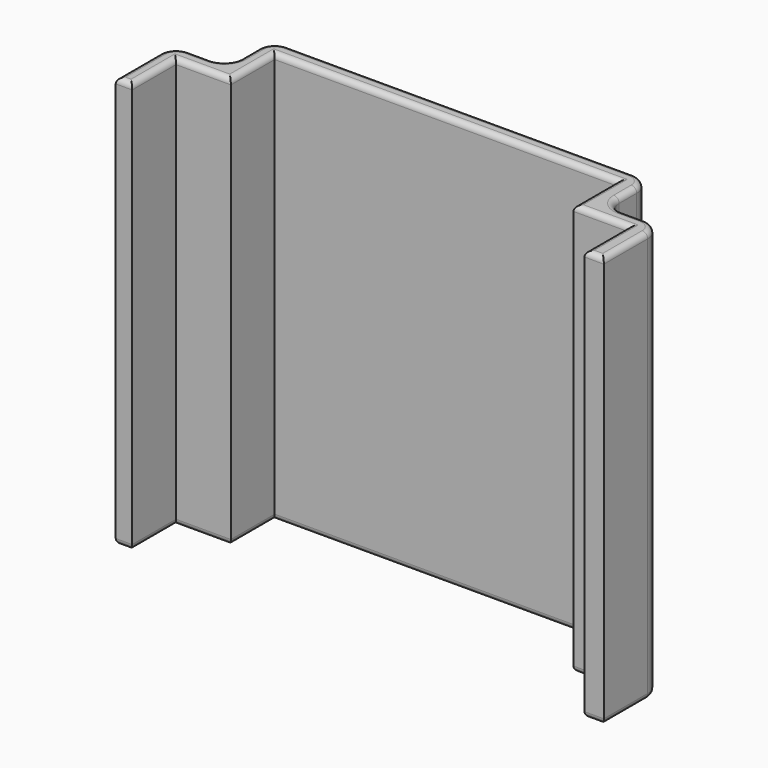
from build123d import *

# Parameters (mm, degrees)
F1_DEPTH = 75
F2_R     = 3
F3_R     = 1
F4_R     = 7.468486
F4_R_2   = 4.590702
F5_DEPTH = 1


with BuildPart() as f1:
    # F0 (on Top) → F1 (new body)
    with BuildSketch(Plane.XY):
        Polygon((-3, 0), (0, 0), (0, 10), (10, 10), (10, 20), (72.5, 20), (72.5, 10), (82.5, 10), (82.5, 0), (86.034332, 0), (86.034332, 13), (76.034332, 13), (76.034332, 23), (7, 23), (7, 13), (-3, 13), align=None)
    extrude(amount=F1_DEPTH)

    # F2
    f2_edges = [f1.edges().sort_by_distance(p)[0] for p in [
        (-3, 13, 37.5),
        (7, 13, 37.5),
        (7, 23, 37.5),
        (76.034332, 23, 37.5),
        (76.034332, 13, 37.5),
        (86.034332, 13, 37.5),
    ]]
    fillet(f2_edges, radius=F2_R)

    # F3
    f3_edges = [f1.edges().sort_by_distance(p)[0] for p in [
        (86.034332, 5, 75),
        (85.155653, 12.12132, 75),
        (84.267166, 0, 75),
        (81.034332, 13, 75),
        (82.5, 5, 75),
        (76.913012, 13.87868, 75),
        (77.5, 10, 75),
        (76.034332, 18, 75),
        (72.5, 15, 75),
        (75.155653, 22.12132, 75),
        (41.25, 20, 75),
        (41.517166, 23, 75),
        (10, 15, 75),
        (7.87868, 22.12132, 75),
        (5, 10, 75),
        (7, 18, 75),
        (0, 5, 75),
        (6.12132, 13.87868, 75),
        (-1.5, 0, 75),
        (2, 13, 75),
        (-3, 5, 75),
        (-2.12132, 12.12132, 75),
        (86.034332, 5, 0),
        (85.155653, 12.12132, 0),
        (84.267166, 0, 0),
        (81.034332, 13, 0),
        (82.5, 5, 0),
        (76.913012, 13.87868, 0),
        (77.5, 10, 0),
        (76.034332, 18, 0),
        (72.5, 15, 0),
        (75.155653, 22.12132, 0),
        (41.25, 20, 0),
        (41.517166, 23, 0),
        (10, 15, 0),
        (7.87868, 22.12132, 0),
        (5, 10, 0),
        (7, 18, 0),
        (0, 5, 0),
        (6.12132, 13.87868, 0),
        (-1.5, 0, 0),
        (2, 13, 0),
        (-3, 5, 0),
        (-2.12132, 12.12132, 0),
    ]]
    fillet(f3_edges, radius=F3_R)

    # F4 (on face) → F5 (cut)
    with BuildSketch(Plane(origin=(0, 23, 0), x_dir=(-1, 0, 0), z_dir=(0, 1, 0))):
        with BuildLine():
            Line((-19.5, 49), (-63.5, 49))
            ThreePointArc((-63.5, 49), (-65.62132, 48.12132), (-66.5, 46))
            Line((-66.5, 46), (-66.5, 32))
            ThreePointArc((-66.5, 32), (-65.62132, 29.87868), (-63.5, 29))
            Line((-63.5, 29), (-61.5, 29))
            Line((-61.5, 29), (-61.5, 26))
            ThreePointArc((-61.5, 26), (-61.207107, 25.292893), (-60.5, 25))
            Line((-60.5, 25), (-58.5, 25))
            ThreePointArc((-58.5, 25), (-57.792893, 25.292893), (-57.5, 26))
            Line((-57.5, 26), (-57.5, 29))
            Line((-57.5, 29), (-25.5, 29))
            Line((-25.5, 29), (-25.5, 26))
            ThreePointArc((-25.5, 26), (-25.207107, 25.292893), (-24.5, 25))
            Line((-24.5, 25), (-22.5, 25))
            ThreePointArc((-22.5, 25), (-21.792893, 25.292893), (-21.5, 26))
            Line((-21.5, 26), (-21.5, 29))
            Line((-21.5, 29), (-19.5, 29))
            ThreePointArc((-19.5, 29), (-17.37868, 29.87868), (-16.5, 32))
            Line((-16.5, 32), (-16.5, 46))
            ThreePointArc((-16.5, 46), (-17.37868, 48.12132), (-19.5, 49))
        make_face()
        with BuildLine():
            ThreePointArc((-61.5, 45.5), (-61.207107, 46.207107), (-60.5, 46.5))
            Line((-60.5, 46.5), (-59.5, 46.5))
            ThreePointArc((-59.5, 46.5), (-58.792893, 46.207107), (-58.5, 45.5))
            Line((-58.5, 45.5), (-58.5, 32.5))
            ThreePointArc((-58.5, 32.5), (-58.792893, 31.792893), (-59.5, 31.5))
            Line((-59.5, 31.5), (-60.5, 31.5))
            ThreePointArc((-60.5, 31.5), (-61.207107, 31.792893), (-61.5, 32.5))
            Line((-61.5, 32.5), (-61.5, 45.5))
        make_face(mode=Mode.SUBTRACT)
        with BuildLine():
            ThreePointArc((-56.5, 45.5), (-56.207107, 46.207107), (-55.5, 46.5))
            Line((-55.5, 46.5), (-54.5, 46.5))
            ThreePointArc((-54.5, 46.5), (-53.792893, 46.207107), (-53.5, 45.5))
            Line((-53.5, 45.5), (-53.5, 32.5))
            ThreePointArc((-53.5, 32.5), (-53.792893, 31.792893), (-54.5, 31.5))
            Line((-54.5, 31.5), (-55.5, 31.5))
            ThreePointArc((-55.5, 31.5), (-56.207107, 31.792893), (-56.5, 32.5))
            Line((-56.5, 32.5), (-56.5, 45.5))
        make_face(mode=Mode.SUBTRACT)
        with BuildLine():
            ThreePointArc((-51.5, 45.5), (-51.207107, 46.207107), (-50.5, 46.5))
            Line((-50.5, 46.5), (-49.5, 46.5))
            ThreePointArc((-49.5, 46.5), (-48.792893, 46.207107), (-48.5, 45.5))
            Line((-48.5, 45.5), (-48.5, 32.5))
            ThreePointArc((-48.5, 32.5), (-48.792893, 31.792893), (-49.5, 31.5))
            Line((-49.5, 31.5), (-50.5, 31.5))
            ThreePointArc((-50.5, 31.5), (-51.207107, 31.792893), (-51.5, 32.5))
            Line((-51.5, 32.5), (-51.5, 45.5))
        make_face(mode=Mode.SUBTRACT)
        with Locations((-27.229397, 38.67811)):
            Circle(F4_R, mode=Mode.SUBTRACT)
        with Locations((-27.229397, 38.67811)):
            Circle(F4_R_2)
    extrude(amount=-F5_DEPTH, mode=Mode.SUBTRACT)


solid = f1.part
